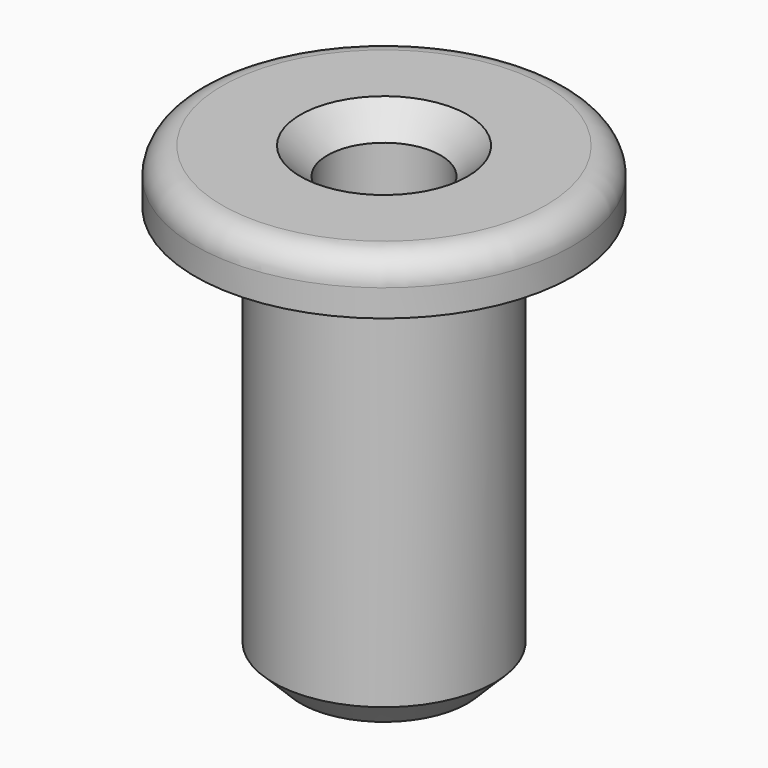
from build123d import *

# Parameters (mm, degrees)
F2_SIZE = 1
F3_R    = 1


with BuildPart() as f1:
    # F0 (on Front) → F1 (revolve)
    with BuildSketch(Plane.XZ):
        Polygon((7, 17.2), (2.1, 17.2), (2.1, 0), (4.1, 0), (4.1, 15.2), (7, 15.2), align=None)
    revolve(axis=Axis((0, 0, 8.6), (0, 0, 1)))

    # F2
    f2_edges = [f1.edges().sort_by_distance(p)[0] for p in [
        (-2.1, 0, 17.2),
        (-4.1, 0, 0),
    ]]
    chamfer(f2_edges, length=F2_SIZE)

    # F3
    f3_edges = [f1.edges().sort_by_distance(p)[0] for p in [
        (-7, 0, 17.2),
    ]]
    fillet(f3_edges, radius=F3_R)


solid = f1.part
